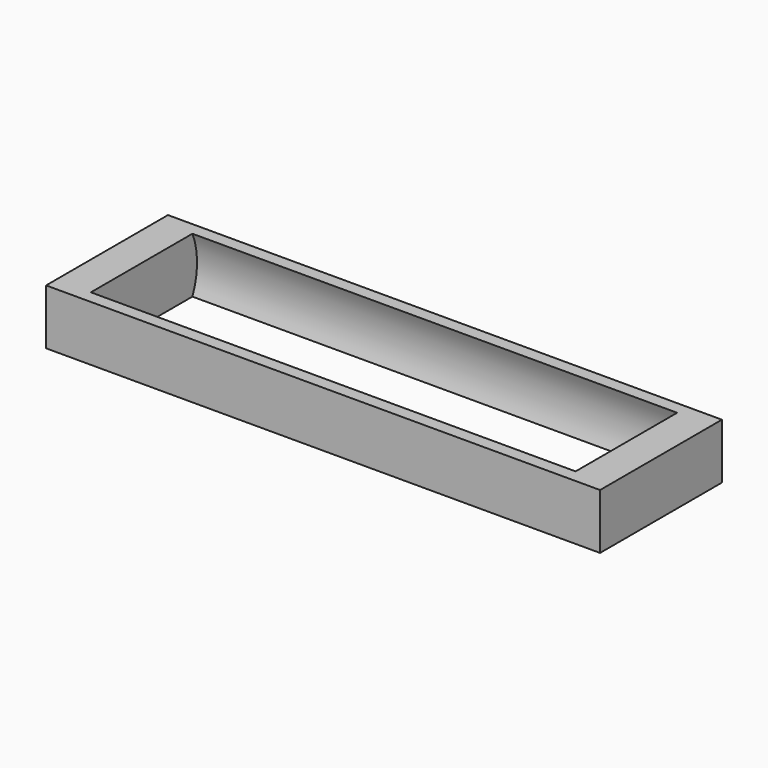
from build123d import *

# Parameters (mm, degrees)
F1_DEPTH = 5
F2_DEPTH = 75
F3_DEPTH = 70


with BuildPart() as f1:
    # F0 (on Right) → F1 (new body)
    with BuildSketch(Plane.YZ):
        with BuildLine():
            Line((-11, -4), (-9.165151, -4))
            ThreePointArc((-9.165151, -4), (-10, 0), (-9.165151, 4))
            Line((-9.165151, 4), (-11, 4))
            Line((-11, 4), (-11, -4))
        make_face()
        with BuildLine():
            Line((-9.165151, -4), (9.165151, -4))
            ThreePointArc((9.165151, -4), (10, 0), (9.165151, 4))
            Line((9.165151, 4), (-9.165151, 4))
            ThreePointArc((-9.165151, 4), (-10, 0), (-9.165151, -4))
        make_face()
        with BuildLine():
            Line((9.165151, -4), (11, -4))
            Line((11, -4), (11, 4))
            Line((11, 4), (9.165151, 4))
            ThreePointArc((9.165151, 4), (10, 0), (9.165151, -4))
        make_face()
    extrude(amount=-F1_DEPTH)

    # F0 (on Right) → F2 (join)
    with BuildSketch(Plane.YZ):
        with BuildLine():
            Line((9.165151, -4), (11, -4))
            Line((11, -4), (11, 4))
            Line((11, 4), (9.165151, 4))
            ThreePointArc((9.165151, 4), (10, 0), (9.165151, -4))
        make_face()
        with BuildLine():
            Line((-9.165151, -4), (9.165151, -4))
            ThreePointArc((9.165151, -4), (10, 0), (9.165151, 4))
            Line((9.165151, 4), (-9.165151, 4))
            ThreePointArc((-9.165151, 4), (-10, 0), (-9.165151, -4))
        make_face()
        with BuildLine():
            Line((-11, -4), (-9.165151, -4))
            ThreePointArc((-9.165151, -4), (-10, 0), (-9.165151, 4))
            Line((-9.165151, 4), (-11, 4))
            Line((-11, 4), (-11, -4))
        make_face()
    extrude(amount=F2_DEPTH)

    # F0 (on Right) → F3 (cut)
    with BuildSketch(Plane.YZ):
        with BuildLine():
            Line((-9.165151, -4), (9.165151, -4))
            ThreePointArc((9.165151, -4), (10, 0), (9.165151, 4))
            Line((9.165151, 4), (-9.165151, 4))
            ThreePointArc((-9.165151, 4), (-10, 0), (-9.165151, -4))
        make_face()
    extrude(amount=F3_DEPTH, mode=Mode.SUBTRACT)


solid = f1.part
